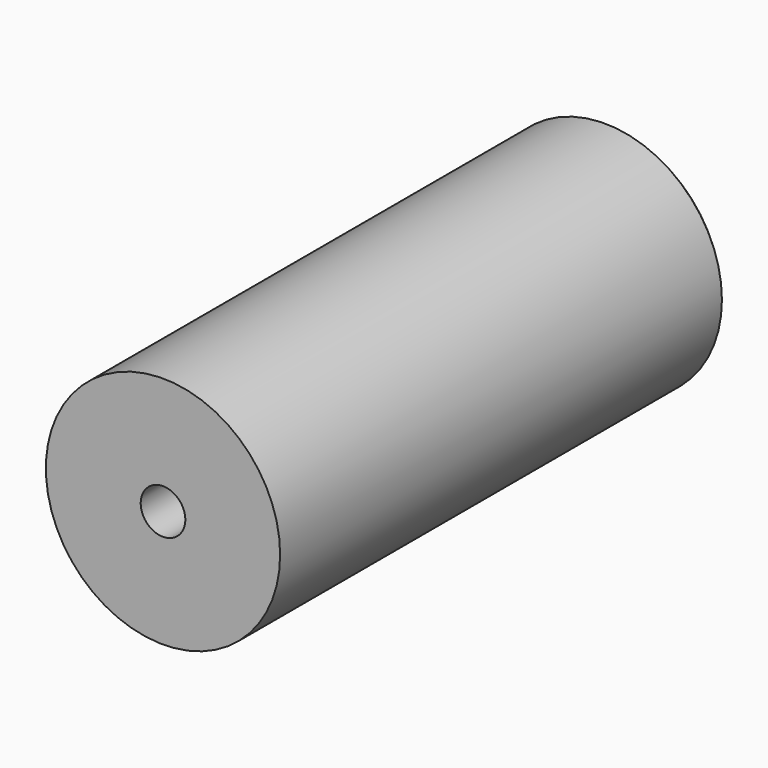
from build123d import *

# Parameters (mm, degrees)
F0_R     = 21
F1_DEPTH = 100
F2_SIZE  = 1
F3_R     = 4
F4_DEPTH = 100.001


with BuildPart() as f1:
    # F0 (on Front) → F1 (new body)
    with BuildSketch(Plane.XZ):
        Circle(F0_R)
    extrude(amount=F1_DEPTH)

    # F2
    f2_edges = [f1.edges().sort_by_distance(p)[0] for p in [
        (-21, 0, 0),
    ]]
    chamfer(f2_edges, length=F2_SIZE)

    # F3 (on face) → F4 (cut, through all)
    with BuildSketch(Plane(origin=(0, 0, 0), x_dir=(-1, 0, 0), z_dir=(0, 1, 0))):
        Circle(F3_R)
    extrude(amount=-F4_DEPTH, mode=Mode.SUBTRACT)


solid = f1.part
